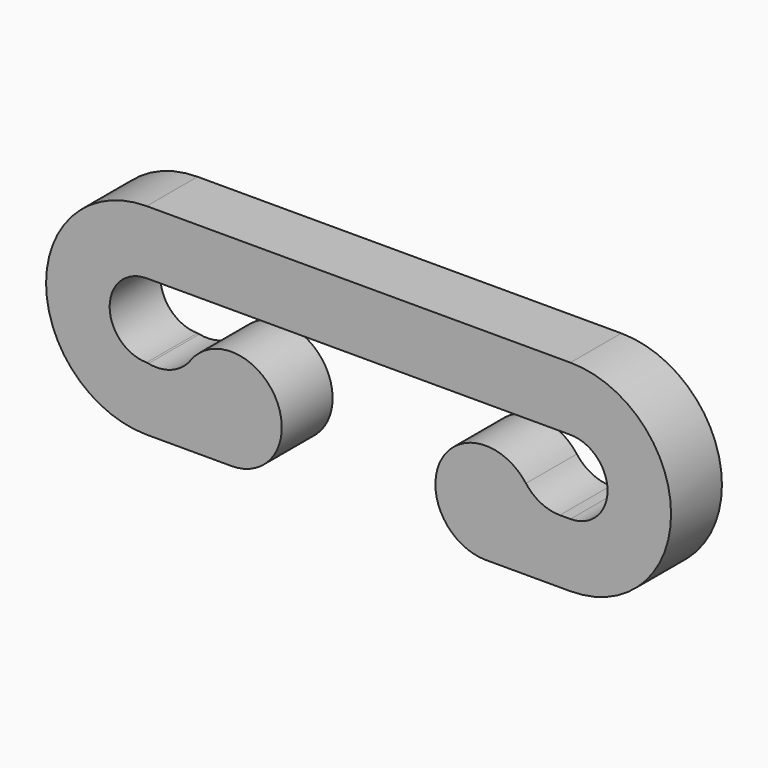
from build123d import *

# Parameters (mm, degrees)
F1_DEPTH = 3


with BuildPart() as f1:
    # F0 (on Front) → F1 (new body)
    with BuildSketch(Plane.XZ):
        with BuildLine():
            ThreePointArc((0, 1.75), (1.75, 0), (0, -1.75))
            Line((0, -1.75), (-0.5, -1.75))
            ThreePointArc((-0.5, -1.75), (-1.394427, -1.538854), (-2.1, -0.95))
            ThreePointArc((-2.1, -0.95), (-6.124265, -1.312868), (-4, -4.75))
            Line((-4, -4.75), (0, -4.75))
            ThreePointArc((0, -4.75), (4.75, 0), (0, 4.75))
            Line((0, 4.75), (-20, 4.75))
            ThreePointArc((-20, 4.75), (-24.75, 0), (-20, -4.75))
            Line((-20, -4.75), (-16, -4.75))
            ThreePointArc((-16, -4.75), (-13.883666, -1.297152), (-17.920914, -0.978321))
            ThreePointArc((-17.920914, -0.978321), (-18.804769, -1.662707), (-19.917848, -1.765869))
            Line((-19.917848, -1.765869), (-20, -1.75))
            ThreePointArc((-20, -1.75), (-21.75, 0), (-20, 1.75))
            Line((-20, 1.75), (0, 1.75))
        make_face()
    extrude(amount=F1_DEPTH)


solid = f1.part
